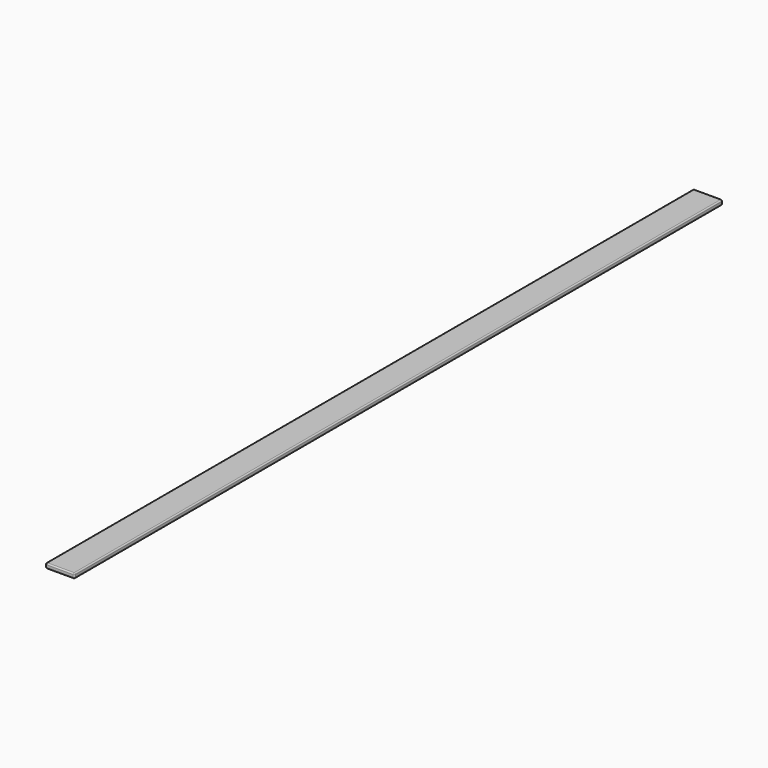
from build123d import *

# Parameters (mm, degrees)
F1_DEPTH = 4267.2
F2_R     = 6.35
F3_R     = 6.35


with BuildPart() as f1:
    # F0 (on Front) → F1 (new body)
    with BuildSketch(Plane.XZ):
        with BuildLine():
            Line((-69.85, -12.7), (69.85, -12.7))
            ThreePointArc((69.85, -12.7), (74.340128, -10.840128), (76.2, -6.35))
            Line((76.2, -6.35), (76.2, 6.35))
            ThreePointArc((76.2, 6.35), (74.340128, 10.840128), (69.85, 12.7))
            Line((69.85, 12.7), (-69.85, 12.7))
            ThreePointArc((-69.85, 12.7), (-74.340128, 10.840128), (-76.2, 6.35))
            Line((-76.2, 6.35), (-76.2, -6.35))
            ThreePointArc((-76.2, -6.35), (-74.340128, -10.840128), (-69.85, -12.7))
        make_face()
    extrude(amount=-F1_DEPTH)

    # F2
    f2_edges = [f1.edges().sort_by_distance(p)[0] for p in [
        (0, 0, 12.7),
        (0, 0, -12.7),
    ]]
    fillet(f2_edges, radius=F2_R)

    # F3
    f3_edges = [f1.edges().sort_by_distance(p)[0] for p in [
        (0, 4267.2, 12.7),
        (76.2, 4267.2, 0),
    ]]
    fillet(f3_edges, radius=F3_R)


solid = f1.part
